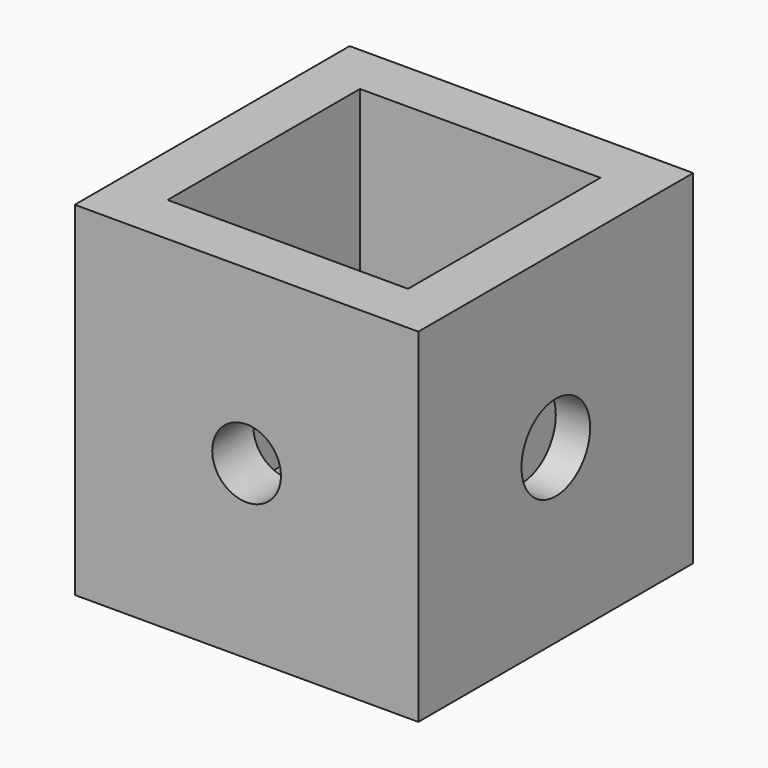
from build123d import *

# Parameters (mm, degrees)
F0_W     = 25.4
F0_H     = 25.4
F1_DEPTH = 25.4
F2_T     = -3.81
F5_D     = 5.08
F5_DEPTH = 50.8
F4_R     = 3.175
F6_DEPTH = 2.54
F7_R     = 3.175
F8_DEPTH = 2.54


with BuildPart() as f1:
    # F0 (on Front) → F1 (new body)
    with BuildSketch(Plane.XZ):
        with Locations((-12.7, 12.7)):
            Rectangle(F0_W, F0_H)
    extrude(amount=F1_DEPTH)

    # F2
    f2_openings = [f1.faces().sort_by_distance(p)[0] for p in [
        (-12.7, -12.7, 25.4),
    ]]
    offset(amount=F2_T, openings=f2_openings)

    # F5
    with Locations(Plane.XZ.offset(25.4)):
        with Locations((-12.7, 12.7)):
            Hole(F5_D / 2, depth=F5_DEPTH)

    # F4 (on face) → F6 (cut)
    with BuildSketch(Plane.YZ):
        with Locations((-12.7, 12.7)):
            Circle(F4_R)
    extrude(amount=-F6_DEPTH, mode=Mode.SUBTRACT)

    # F7 (on face) → F8 (cut)
    with BuildSketch(Plane(origin=(-25.4, 0, 0), x_dir=(0, -1, 0), z_dir=(-1, 0, 0))):
        with Locations((12.7, 12.7)):
            Circle(F7_R)
    extrude(amount=-F8_DEPTH, mode=Mode.SUBTRACT)


solid = f1.part
